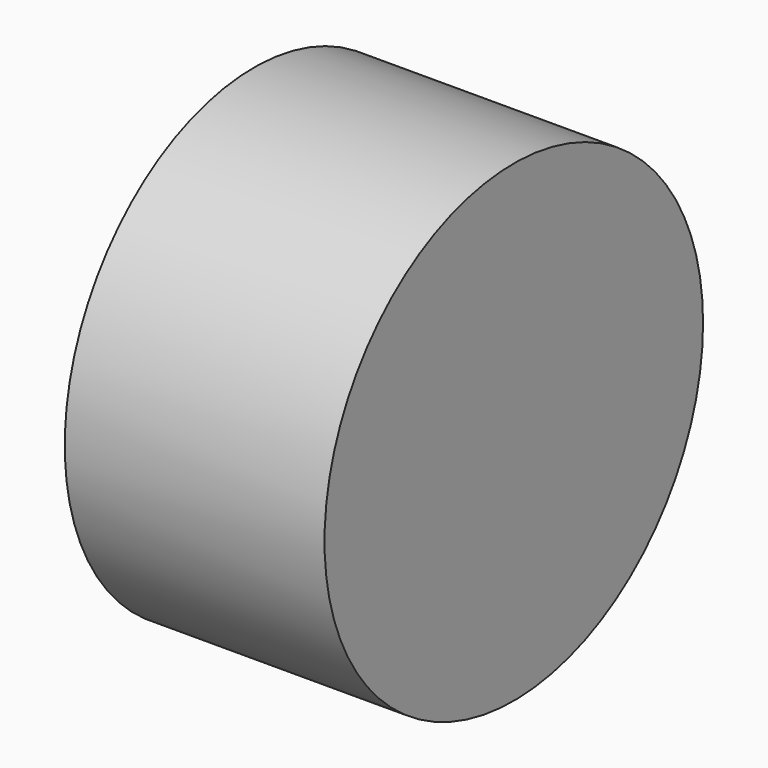
from build123d import *

# Parameters (mm, degrees)
F0_R     = 10.177589
F1_DEPTH = 11.176
F2_R     = 10.040254
F3_DEPTH = 11.176


with BuildPart() as f1:
    # F0 (on Right) → F1 (new body)
    with BuildSketch(Plane.YZ):
        with Locations((47.875904, 10.407805)):
            Circle(F0_R)
    extrude(amount=F1_DEPTH)


with BuildPart() as f3:
    # F2 (on Right) → F3 (new body)
    with BuildSketch(Plane.YZ):
        with Locations((-41.587934, 10.073202)):
            Circle(F2_R)
    extrude(amount=F3_DEPTH)


solid = f1.part
